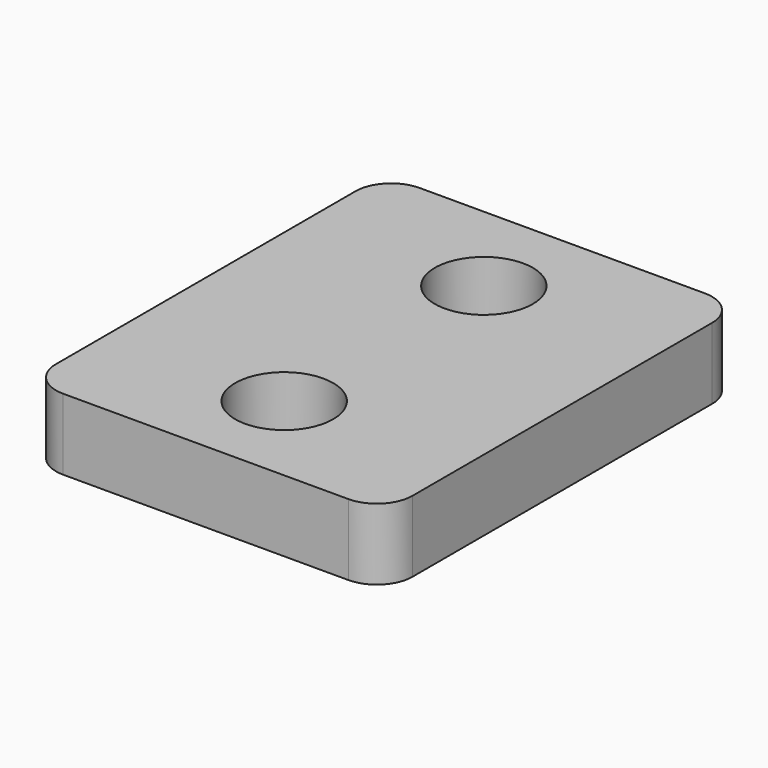
from build123d import *

# Parameters (mm, degrees)
SKETCH_R  = 2.75
PAD_DEPTH = 4


with BuildPart() as part:
    # Sketch → Pad (new body)
    with BuildSketch(Plane.XY):
        with BuildLine():
            Line((2, 12.5), (18, 12.5))
            ThreePointArc((20, 10.5), (19.414214, 11.914214), (18, 12.5))
            Line((20, 10.5), (20, -10.5))
            ThreePointArc((18, -12.5), (19.414214, -11.914214), (20, -10.5))
            Line((18, -12.5), (2, -12.5))
            ThreePointArc((0, -10.5), (0.585786, -11.914214), (2, -12.5))
            Line((0, -10.5), (0, 10.5))
            ThreePointArc((2, 12.5), (0.585786, 11.914214), (0, 10.5))
        make_face()
        with Locations((10, -7)):
            Circle(SKETCH_R, mode=Mode.SUBTRACT)
        with Locations((10, 7)):
            Circle(SKETCH_R, mode=Mode.SUBTRACT)
    extrude(amount=PAD_DEPTH)


solid = part.part
